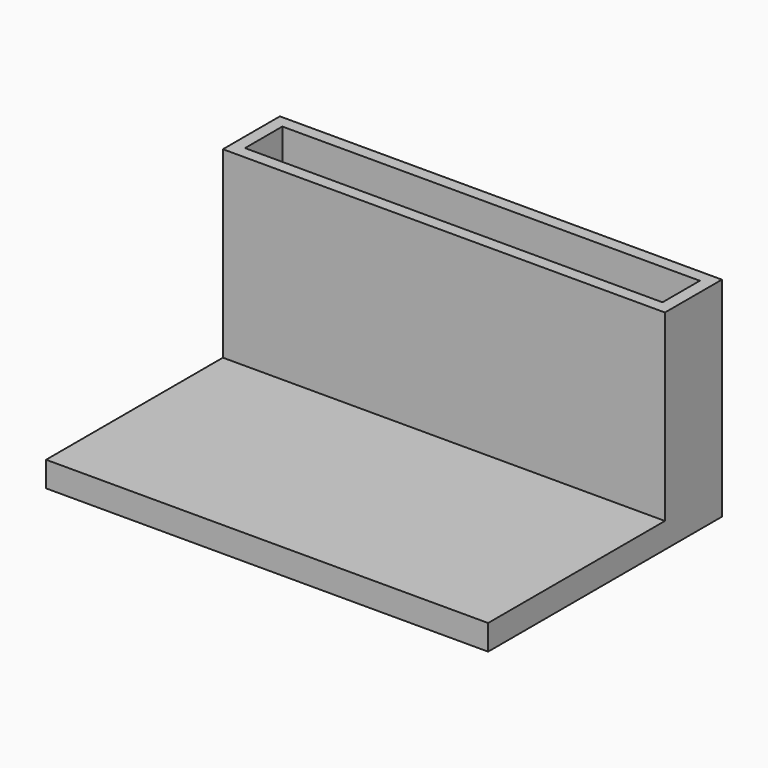
from build123d import *

# Parameters (mm, degrees)
F0_W      = 215.9
F0_H      = 101.6
F1_DEPTH  = 6.35
F2_W      = 30.48
F2_H      = 101.6
F3_DEPTH  = 6.35
F4_W      = 30.48
F4_H      = 101.6
F5_DEPTH  = 6.35
F6_W      = 228.6
F6_H      = 101.6
F7_DEPTH  = 6.35
F8_W      = 228.6
F8_H      = 36.83
F9_DEPTH  = 6.35
F10_W     = 228.6
F10_H     = 13.051015
F11_DEPTH = 114.3


with BuildPart() as f1:
    # F0 (on Front) → F1 (new body)
    with BuildSketch(Plane.XZ):
        with Locations((26.323635, -1.504316)):
            Rectangle(F0_W, F0_H)
    extrude(amount=F1_DEPTH)

    # F2 (on face) → F3 (join)
    with BuildSketch(Plane(origin=(-81.626365, 0, 0), x_dir=(0, -1, 0), z_dir=(-1, 0, 0))):
        with Locations((-8.89, -1.504316)):
            Rectangle(F2_W, F2_H)
    extrude(amount=F3_DEPTH)

    # F4 (on face) → F5 (join)
    with BuildSketch(Plane.YZ.offset(134.273635)):
        with Locations((8.89, -1.504316)):
            Rectangle(F4_W, F4_H)
    extrude(amount=F5_DEPTH)

    # F6 (on face) → F7 (join)
    with BuildSketch(Plane(origin=(0, 24.13, 0), x_dir=(-1, 0, 0), z_dir=(0, 1, 0))):
        with Locations((-26.323635, -1.504316)):
            Rectangle(F6_W, F6_H)
    extrude(amount=F7_DEPTH)

    # F8 (on face) → F9 (join)
    with BuildSketch(Plane(origin=(0, 0, -52.304316), x_dir=(1, 0, 0), z_dir=(0, 0, -1))):
        with Locations((26.323635, -12.065)):
            Rectangle(F8_W, F8_H)
    extrude(amount=F9_DEPTH)

    # F10 (on face) → F11 (join)
    with BuildSketch(Plane.XZ.offset(6.35)):
        with Locations((26.323635, -52.128808)):
            Rectangle(F10_W, F10_H)
    extrude(amount=F11_DEPTH)


solid = f1.part
